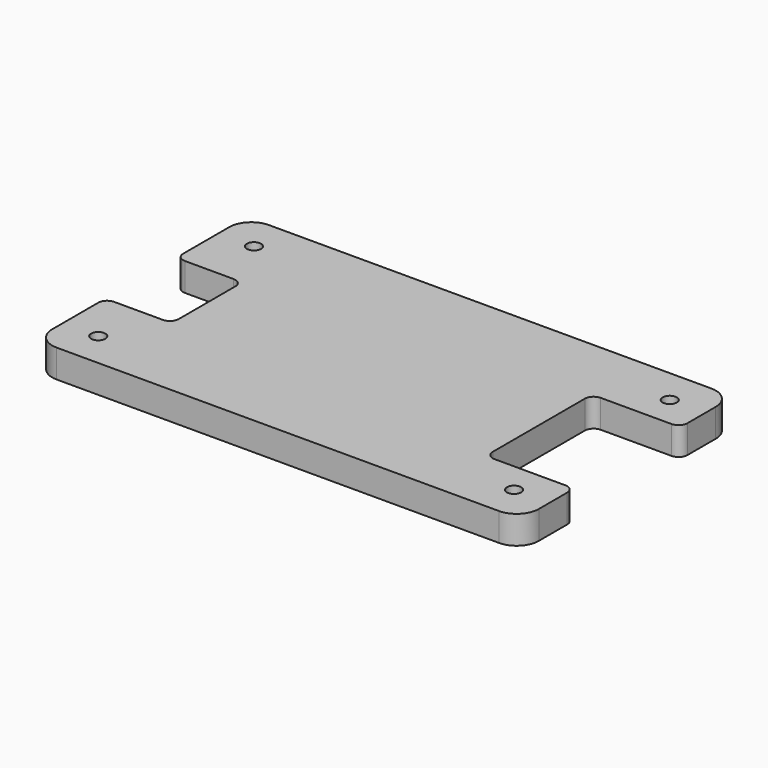
from build123d import *

# Parameters (mm, degrees)
F0_R     = 1.6
F1_DEPTH = 6.35
F2_R     = 5
F3_R     = 2


with BuildPart() as f1:
    # F0 (on Top) → F1 (new body)
    with BuildSketch(Plane.XY):
        Polygon((55, 30), (-55, 30), (-55, 10), (-40, 10), (-40, -10), (-55, -10), (-55, -30), (55, -30), (55, -15), (35, -15), (35, 15), (55, 15), align=None)
        with Locations((-47, -22)):
            Circle(F0_R, mode=Mode.SUBTRACT)
        with Locations((47, -22)):
            Circle(F0_R, mode=Mode.SUBTRACT)
        with Locations((-47, 22)):
            Circle(F0_R, mode=Mode.SUBTRACT)
        with Locations((47, 22)):
            Circle(F0_R, mode=Mode.SUBTRACT)
    extrude(amount=F1_DEPTH)

    # F2
    f2_edges = [f1.edges().sort_by_distance(p)[0] for p in [
        (-55, 30, 3.175),
        (55, 30, 3.175),
        (55, -30, 3.175),
        (-55, -30, 3.175),
    ]]
    fillet(f2_edges, radius=F2_R)

    # F3
    f3_edges = [f1.edges().sort_by_distance(p)[0] for p in [
        (-55, -10, 3.175),
        (-40, -10, 3.175),
        (-55, 10, 3.175),
        (-40, 10, 3.175),
        (35, -15, 3.175),
        (55, -15, 3.175),
        (55, 15, 3.175),
        (35, 15, 3.175),
    ]]
    fillet(f3_edges, radius=F3_R)


solid = f1.part
